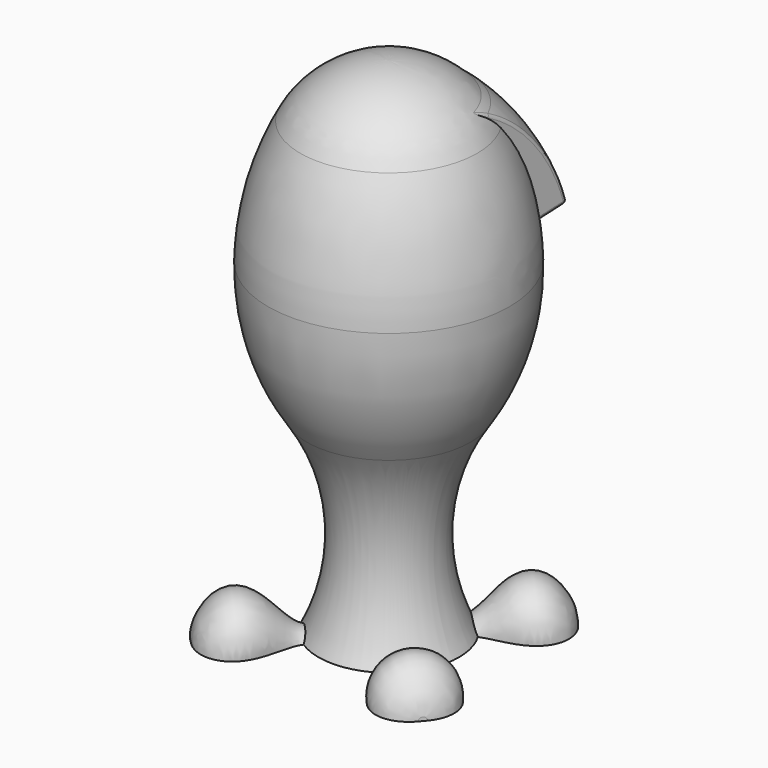
from build123d import *

# Parameters (mm, degrees)
LOFT014_PLACEMENT_ANGLE = 45
LOFT015_PLACEMENT_ANGLE = 320
LOFT016_PLACEMENT_ANGLE = 130
LOFT017_PLACEMENT_ANGLE = 225
EXTRUDE009_DEPTH        = 500
REVOLUTION003_ANGLE     = 180
FILLET010_R             = 1
FILLET011_R             = 1
FILLET012_R             = 1
FILLET013_R             = 0.5


with BuildPart() as loft022:
    # Sketch060 → Loft014 section 0
    with BuildSketch(Plane(origin=(14, 0, 0), x_dir=(0, 0, -1), z_dir=(1, 0, 0))):
        with BuildLine():
            ThreePointArc((0, 8), (-8, 0), (0, -8))
            Line((0, -8), (0, 8))
        make_face()
    # Sketch061 → Loft014 section 1
    with BuildSketch(Plane(origin=(26, 0, 0), x_dir=(0, 0, -1), z_dir=(1, 0, 0))):
        with BuildLine():
            ThreePointArc((0, 6), (-6, 0), (0, -6))
            Line((0, -6), (0, 6))
        make_face()
    # Sketch057 → Loft014 section 2
    with BuildSketch(Plane(origin=(38, 0, 0), x_dir=(0, 0, -1), z_dir=(1, 0, 0))):
        with BuildLine():
            Line((0, -10), (0, 10))
            ThreePointArc((0, 10), (-11.049876, 0), (0, -10))
        make_face()
    # Sketch058 → Loft014 section 3
    with BuildSketch(Plane(origin=(42, 0, 0), x_dir=(0, 0, -1), z_dir=(1, 0, 0))):
        with BuildLine():
            ThreePointArc((0, 8), (-8, 0), (0, -8))
            Line((0, -8), (0, 8))
        make_face()
    # Sketch059 → Loft014 section 4
    with BuildSketch(Plane(origin=(45, 0, 0), x_dir=(0, 0, -1), z_dir=(1, 0, 0))):
        with BuildLine():
            ThreePointArc((0, 1), (-1, 0), (0, -1))
            Line((0, -1), (0, 1))
        make_face()
    loft()


with BuildPart() as loft022_1:
    # Loft014 placement: moved
    add(loft022.part.moved(Location((-3.535534, -3.535534, 0))).rotate(Axis((-3.535534, -3.535534, 0), (0, 0, 1)), LOFT014_PLACEMENT_ANGLE))


with BuildPart() as loft023:
    # Sketch065 → Loft015 section 0
    with BuildSketch(Plane(origin=(14, 0, 0), x_dir=(0, 0, -1), z_dir=(1, 0, 0))):
        with BuildLine():
            ThreePointArc((0, 8), (-8, 0), (0, -8))
            Line((0, -8), (0, 8))
        make_face()
    # Sketch066 → Loft015 section 1
    with BuildSketch(Plane(origin=(26, 0, 0), x_dir=(0, 0, -1), z_dir=(1, 0, 0))):
        with BuildLine():
            ThreePointArc((0, 6), (-6, 0), (0, -6))
            Line((0, -6), (0, 6))
        make_face()
    # Sketch062 → Loft015 section 2
    with BuildSketch(Plane(origin=(38, 0, 0), x_dir=(0, 0, -1), z_dir=(1, 0, 0))):
        with BuildLine():
            Line((0, -10), (0, 10))
            ThreePointArc((0, 10), (-11.049876, 0), (0, -10))
        make_face()
    # Sketch063 → Loft015 section 3
    with BuildSketch(Plane(origin=(42, 0, 0), x_dir=(0, 0, -1), z_dir=(1, 0, 0))):
        with BuildLine():
            ThreePointArc((0, 8), (-8, 0), (0, -8))
            Line((0, -8), (0, 8))
        make_face()
    # Sketch064 → Loft015 section 4
    with BuildSketch(Plane(origin=(45, 0, 0), x_dir=(0, 0, -1), z_dir=(1, 0, 0))):
        with BuildLine():
            ThreePointArc((0, 1), (-1, 0), (0, -1))
            Line((0, -1), (0, 1))
        make_face()
    loft()


with BuildPart() as loft023_1:
    # Loft015 placement: moved
    add(loft023.part.moved(Location((-3.262517, 1.457007, 0))).rotate(Axis((-3.262517, 1.457007, 0), (0, 0, 1)), LOFT015_PLACEMENT_ANGLE))


with BuildPart() as loft024:
    # Sketch070 → Loft016 section 0
    with BuildSketch(Plane(origin=(14, 0, 0), x_dir=(0, 0, -1), z_dir=(1, 0, 0))):
        with BuildLine():
            ThreePointArc((0, 8), (-8, 0), (0, -8))
            Line((0, -8), (0, 8))
        make_face()
    # Sketch071 → Loft016 section 1
    with BuildSketch(Plane(origin=(26, 0, 0), x_dir=(0, 0, -1), z_dir=(1, 0, 0))):
        with BuildLine():
            ThreePointArc((0, 6), (-6, 0), (0, -6))
            Line((0, -6), (0, 6))
        make_face()
    # Sketch067 → Loft016 section 2
    with BuildSketch(Plane(origin=(38, 0, 0), x_dir=(0, 0, -1), z_dir=(1, 0, 0))):
        with BuildLine():
            Line((0, -10), (0, 10))
            ThreePointArc((0, 10), (-11.049876, 0), (0, -10))
        make_face()
    # Sketch068 → Loft016 section 3
    with BuildSketch(Plane(origin=(42, 0, 0), x_dir=(0, 0, -1), z_dir=(1, 0, 0))):
        with BuildLine():
            ThreePointArc((0, 8), (-8, 0), (0, -8))
            Line((0, -8), (0, 8))
        make_face()
    # Sketch069 → Loft016 section 4
    with BuildSketch(Plane(origin=(45, 0, 0), x_dir=(0, 0, -1), z_dir=(1, 0, 0))):
        with BuildLine():
            ThreePointArc((0, 1), (-1, 0), (0, -1))
            Line((0, -1), (0, 1))
        make_face()
    loft()


with BuildPart() as loft024_1:
    # Loft016 placement: moved
    add(loft024.part.moved(Location((1.395378, -3.966933, 0))).rotate(Axis((1.395378, -3.966933, 0), (0, 0, 1)), LOFT016_PLACEMENT_ANGLE))


with BuildPart() as loft025:
    # Sketch075 → Loft017 section 0
    with BuildSketch(Plane(origin=(14, 0, 0), x_dir=(0, 0, -1), z_dir=(1, 0, 0))):
        with BuildLine():
            ThreePointArc((0, 8), (-8, 0), (0, -8))
            Line((0, -8), (0, 8))
        make_face()
    # Sketch076 → Loft017 section 1
    with BuildSketch(Plane(origin=(26, 0, 0), x_dir=(0, 0, -1), z_dir=(1, 0, 0))):
        with BuildLine():
            ThreePointArc((0, 6), (-6, 0), (0, -6))
            Line((0, -6), (0, 6))
        make_face()
    # Sketch072 → Loft017 section 2
    with BuildSketch(Plane(origin=(38, 0, 0), x_dir=(0, 0, -1), z_dir=(1, 0, 0))):
        with BuildLine():
            Line((0, -10), (0, 10))
            ThreePointArc((0, 10), (-11.049876, 0), (0, -10))
        make_face()
    # Sketch073 → Loft017 section 3
    with BuildSketch(Plane(origin=(42, 0, 0), x_dir=(0, 0, -1), z_dir=(1, 0, 0))):
        with BuildLine():
            ThreePointArc((0, 8), (-8, 0), (0, -8))
            Line((0, -8), (0, 8))
        make_face()
    # Sketch074 → Loft017 section 4
    with BuildSketch(Plane(origin=(45, 0, 0), x_dir=(0, 0, -1), z_dir=(1, 0, 0))):
        with BuildLine():
            ThreePointArc((0, 1), (-1, 0), (0, -1))
            Line((0, -1), (0, 1))
        make_face()
    loft()


with BuildPart() as loft025_1:
    # Loft017 placement: moved
    add(loft025.part.moved(Location((2.12132, 2.12132, 0))).rotate(Axis((2.12132, 2.12132, 0), (0, 0, 1)), LOFT017_PLACEMENT_ANGLE))


with BuildPart() as extrude009:
    # Sketch078 → Extrude009 (new body)
    with BuildSketch(Plane.XY):
        Polygon((-18.352252, 0), (18.352252, 0), (28.064856, 55.082912), (60.336977, 55.082912), (60.336977, -19.472164), (-60.745609, -19.472164), (-60.745609, 47.615075), (-26.748075, 47.615075), align=None)
    extrude(amount=EXTRUDE009_DEPTH)


with BuildPart() as fillet013:
    # Sketch077 → Revolution003 (revolve)
    with BuildSketch(Plane.XZ):
        with BuildLine():
            Line((0, 99.38839), (29.723278, 102.247818))
            Line((29.723278, 102.247818), (31.324564, 98.473366))
            Line((31.324564, 98.473366), (38.415955, 100.074654))
            ThreePointArc((38.415955, 100.074654), (32.203837, 115.704893), (21.488107, 128.668994))
            ThreePointArc((21.488107, 128.668994), (11.466869, 134.369026), (0, 135.563389))
            Line((0, 135.563389), (0, 99.38839))
        make_face()
    revolve(axis=Axis((0, 0, 0), (0, 0, 1)), revolution_arc=REVOLUTION003_ANGLE)

    # Cut004: cut Extrude009
    add(extrude009.part, mode=Mode.SUBTRACT)

    # Fillet010
    fillet010_edges = [fillet013.edges().sort_by_distance(p)[0] for p in [
        (22.96397, 26.154352, 99.259293),
    ]]
    fillet(fillet010_edges, radius=FILLET010_R)

    # Fillet011
    fillet011_edges = [fillet013.edges().sort_by_distance(p)[0] for p in [
        (-0.507309, 38.412605, 100.074654),
    ]]
    fillet(fillet011_edges, radius=FILLET011_R)

    # Fillet012
    fillet012_edges = [fillet013.edges().sort_by_distance(p)[0] for p in [
        (-22.866613, 25.602213, 99.151379),
    ]]
    fillet(fillet012_edges, radius=FILLET012_R)

    # Fillet013
    fillet013_edges = [fillet013.edges().sort_by_distance(p)[0] for p in [
        (0, 31.324564, 98.473366),
    ]]
    fillet(fillet013_edges, radius=FILLET013_R)


with BuildPart() as fillet013_1:
    # Fillet013 placement: moved
    add(fillet013.part.moved(Location((0, 0, -3))))


with BuildPart() as fusion001:
    # Sketch045 → Revolution002 (revolve)
    with BuildSketch(Plane.XZ):
        with BuildLine():
            Line((0, 0), (0, 135.563389))
            ThreePointArc((23.86226, 121.281178), (13.904936, 131.720055), (0, 135.563389))
            ThreePointArc((32.577943, 87.696618), (30.229669, 105.01041), (23.86226, 121.281178))
            ThreePointArc((22.101567, 52.101534), (30.047255, 69.102202), (32.577943, 87.696618))
            ThreePointArc((22.101567, 52.101534), (13.488015, 26.476163), (18.952965, 0))
            Line((0, 0), (18.952965, 0))
        make_face()
    revolve(axis=Axis((0, 0, 0), (0, 0, 1)))

    # Fusion001: union Loft022, Loft023, Loft024, Loft025, Fillet013
    add(loft022_1.part)
    add(loft023_1.part)
    add(loft024_1.part)
    add(loft025_1.part)
    add(fillet013_1.part)


solid = fusion001.part
